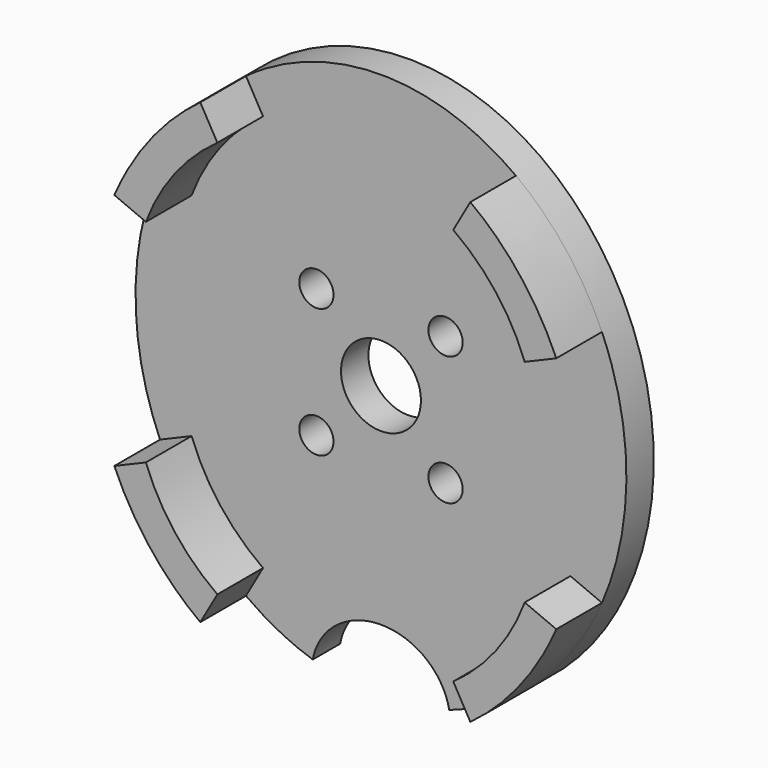
from build123d import *

# Parameters (mm, degrees)
F0_R     = 1.5
F0_R_2   = 3.5
F1_DEPTH = 3
F3_DEPTH = 5


with BuildPart() as f1:
    # F0 (on Front) → F1 (new body)
    with BuildSketch(Plane.XZ):
        with BuildLine():
            add(Edge.make_bspline(
                [(5.974625644, -23.0547126744), (5.1092471146, -18.4189665252), (0, -18.4189665252), (-5.1092471146, -18.4189665252), (-5.974625644, -23.0547126744)],
                knots=[3.3117880857, 3.3117880857, 3.3117880857, 4.7123889804, 4.7123889804, 6.1129898751, 6.1129898751, 6.1129898751], degree=2, weights=[1, 0.7646485993, 1, 0.7646485993, 1]))
            add(Edge.make_bspline(
                [(5.974625644, -23.0547126744), (35.0600153752, -13.6624239269), (17.5300076876, 13.8952681794), (0, 41.4529602857), (-17.5300076876, 13.8952681794), (-35.0600153752, -13.6624239269), (-5.974625644, -23.0547126744)],
                knots=[3.4231890954, 3.4231890954, 3.4231890954, 5.3298532366, 5.3298532366, 7.2365173778, 7.2365173778, 9.143181519, 9.143181519, 9.143181519], degree=2, weights=[1, 0.5789695075, 1, 0.5789695075, 1, 0.5789695075, 1]))
        make_face()
        with Locations((-5.656854248, -5.6568542509)):
            Circle(F0_R, mode=Mode.SUBTRACT)
        with Locations((5.6568542502, -5.6568542488)):
            Circle(F0_R, mode=Mode.SUBTRACT)
        Circle(F0_R_2, mode=Mode.SUBTRACT)
        with Locations((-5.6568542517, 5.6568542473)):
            Circle(F0_R, mode=Mode.SUBTRACT)
        with Locations((5.6568542495, 5.6568542495)):
            Circle(F0_R, mode=Mode.SUBTRACT)
    extrude(amount=F1_DEPTH)

    # F2 (on face) → F3 (join)
    with BuildSketch(Plane.XZ.offset(3)):
        with BuildLine():
            Line((16.5940169989, 9.2761721889), (19.3566756245, 10.44595731))
            add(Edge.make_bspline(
                [(19.3566756245, 10.44595731), (16.7766172987, 16.4033689981), (11.8261484692, 20.0431073747)],
                knots=[5.1627029451, 5.1627029451, 5.1627029451, 5.7007571079, 5.7007571079, 5.7007571079], degree=2, weights=[1, 0.9640299482, 1]))
            Line((11.8261484692, 20.0431073747), (10.3316996668, 17.4140993408))
            ThreePointArc((10.3316996668, 17.4140993408), (14.073181445, 13.8147930783), (16.5940169989, 9.2761721889))
        make_face()
        with BuildLine():
            ThreePointArc((16.5940169989, -9.2761721889), (14.073181445, -13.8147930783), (10.3316996668, -17.4140993408))
            Line((10.3316996668, -17.4140993408), (11.8261484692, -20.0431073747))
            add(Edge.make_bspline(
                [(11.8261484692, -20.0431073747), (16.7766172987, -16.4033689981), (19.3566756245, -10.44595731)],
                knots=[3.7240208529, 3.7240208529, 3.7240208529, 4.2620750157, 4.2620750157, 4.2620750157], degree=2, weights=[1, 0.9640299482, 1]))
            Line((19.3566756245, -10.44595731), (16.5940169989, -9.2761721889))
        make_face()
        with BuildLine():
            ThreePointArc((-16.5940169989, 9.2761721889), (-14.073181445, 13.8147930783), (-10.3316996668, 17.4140993408))
            Line((-10.3316996668, 17.4140993408), (-11.8261484692, 20.0431073747))
            add(Edge.make_bspline(
                [(-11.8261484692, 20.0431073747), (-16.7766172987, 16.4033689981), (-19.3566756245, 10.44595731)],
                knots=[3.7240208529, 3.7240208529, 3.7240208529, 4.2620750157, 4.2620750157, 4.2620750157], degree=2, weights=[1, 0.9640299482, 1]))
            Line((-19.3566756245, 10.44595731), (-16.5940169989, 9.2761721889))
        make_face()
        with BuildLine():
            ThreePointArc((-10.3316996668, -17.4140993408), (-14.073181445, -13.8147930783), (-16.5940169989, -9.2761721889))
            Line((-16.5940169989, -9.2761721889), (-19.3566756245, -10.44595731))
            add(Edge.make_bspline(
                [(-19.3566756245, -10.44595731), (-16.7766172987, -16.4033689981), (-11.8261484692, -20.0431073747)],
                knots=[5.1627029451, 5.1627029451, 5.1627029451, 5.7007571079, 5.7007571079, 5.7007571079], degree=2, weights=[1, 0.9640299482, 1]))
            Line((-11.8261484692, -20.0431073747), (-10.3316996668, -17.4140993408))
        make_face()
    extrude(amount=F3_DEPTH)


solid = f1.part
